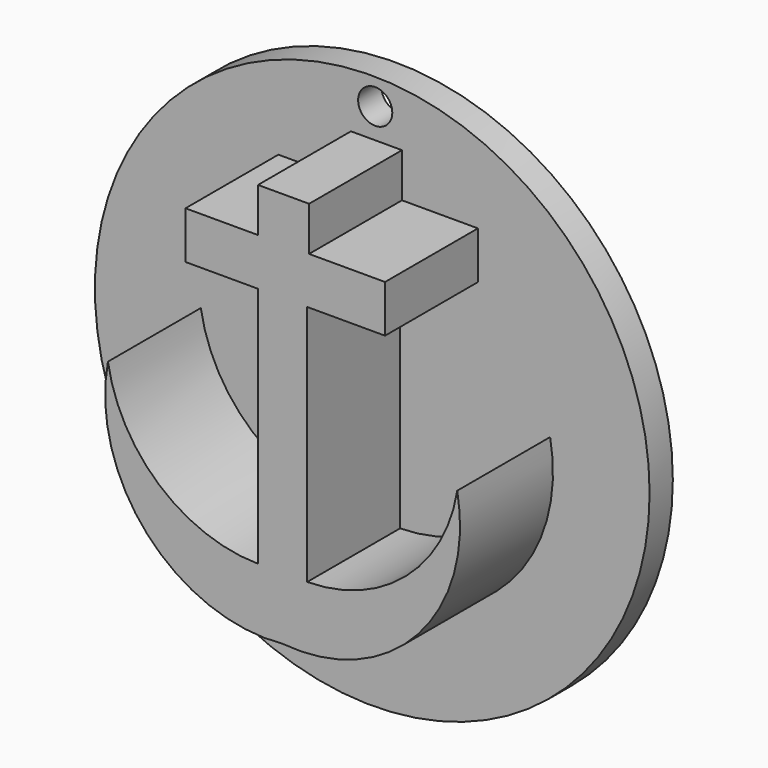
from build123d import *

# Parameters (mm, degrees)
F1_DEPTH = 127
F2_R     = 242.677577
F3_DEPTH = 25.4
F4_R     = 14.944068
F5_DEPTH = 25.4
F6_DEPTH = 25.4
F7_DEPTH = 127.001


with BuildPart() as f1:
    # F0 (on Front) → F1 (new body)
    with BuildSketch(Plane.XZ):
        with BuildLine():
            Line((-211.768046, 98.819412), (-148.323849, 98.819412))
            Line((-148.323849, 98.819412), (-148.323849, -113.029018))
            ThreePointArc((-148.323849, -113.029018), (-234.634399, -80.514054), (-279.625744, 0))
            ThreePointArc((-279.625744, 0), (-245.041574, -121.948367), (-126.808003, -167.646199))
            ThreePointArc((-126.808003, -167.646199), (-8.574432, -121.948367), (26.009738, 0))
            ThreePointArc((26.009738, 0), (-18.981606, -80.514054), (-105.292156, -113.029018))
            Line((-105.292156, -113.029018), (-105.292156, 98.819412))
            Line((-105.292156, 98.819412), (-37.183784, 98.819412))
            Line((-37.183784, 98.819412), (-37.183784, 140.196055))
            Line((-37.183784, 140.196055), (-103.637077, 140.196055))
            Line((-103.637077, 140.196055), (-103.637077, 178.814262))
            Line((-103.637077, 178.814262), (-148.323849, 178.814262))
            Line((-148.323849, 178.814262), (-148.323849, 140.196055))
            Line((-148.323849, 140.196055), (-211.768046, 140.196055))
            Line((-211.768046, 140.196055), (-211.768046, 98.819412))
        make_face()
    extrude(amount=F1_DEPTH)

    # F2 (on Front) → F3 (join)
    with BuildSketch(Plane.XZ):
        with Locations((-129.646823, -14.895595)):
            Circle(F2_R)
    extrude(amount=F3_DEPTH)

    # F4 (on Front) → F5 (join)
    with BuildSketch(Plane.XZ):
        with Locations((-127.059489, 204.872638)):
            Circle(F4_R)
    extrude(amount=F5_DEPTH)

    # F4 (on Front) → F6 (join)
    with BuildSketch(Plane.XZ):
        with Locations((-127.059489, 204.872638)):
            Circle(F4_R)
    extrude(amount=F6_DEPTH)

    # F4 (on Front) → F7 (cut, through all)
    with BuildSketch(Plane.XZ):
        with Locations((-127.059489, 204.872638)):
            Circle(F4_R)
    extrude(amount=F7_DEPTH, mode=Mode.SUBTRACT)


solid = f1.part
